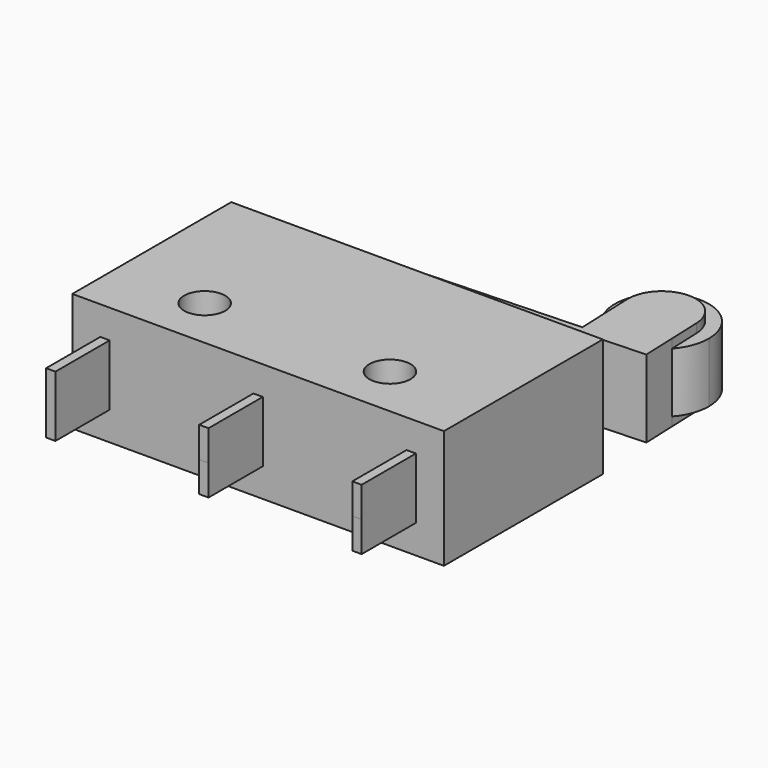
from build123d import *

# Parameters (mm, degrees)
F0_R          = 1.1
F1_DEPTH      = 3.175
F1_DEPTH_BACK = 3.175
F2_DEPTH      = 2.075
F2_DEPTH_BACK = 2.075
F0_W          = 0.5
F0_H          = 3.63
F3_DEPTH      = 1.635
F3_DEPTH_BACK = 1.635
F4_DEPTH      = 1.6
F4_DEPTH_BACK = 1.6


with BuildPart() as f1:
    # F0 (on Top) → F1 (new body, two sides)
    with BuildSketch(Plane.XY) as f1_sk:
        Polygon((8.45, -5.32), (9.95, -5.32), (9.95, 5.32), (0, 5.32), (-7.28, 5.32), (-7.68, 5.32), (-9.95, 5.32), (-9.95, -5.32), (-8.45, -5.32), (-7.95, -5.32), (-0.25, -5.32), (0.25, -5.32), (7.95, -5.32), align=None)
        with Locations((-5.1, -2.52)):
            Circle(F0_R, mode=Mode.SUBTRACT)
        with Locations((4.82, -2.52)):
            Circle(F0_R, mode=Mode.SUBTRACT)
    extrude(amount=F1_DEPTH)
    extrude(f1_sk.sketch, amount=-F1_DEPTH_BACK)

    # F0 (on Top) → F2 (join, two sides)
    with BuildSketch(Plane.XY) as f2_sk:
        with BuildLine():
            Line((-7.68, 5.32), (-7.28, 5.32))
            Line((-7.28, 5.32), (-7.28, 6.32))
            Line((-7.28, 6.32), (10.906001, 7.033709))
            Line((10.906001, 7.033709), (10.835264, 8.836148))
            ThreePointArc((10.835264, 8.836148), (9.056806, 7.996935), (7.218048, 8.69419))
            Line((7.218048, 8.69419), (7.273099, 7.291444))
            Line((7.273099, 7.291444), (-7.295686, 6.719692))
            Line((-7.295686, 6.719692), (-7.68, 6.32))
            Line((-7.68, 6.32), (-7.68, 5.32))
        make_face()
        with BuildLine():
            ThreePointArc((7.218048, 8.69419), (9.056806, 7.996935), (10.835264, 8.836148))
            Line((10.835264, 8.836148), (10.766788, 10.580979))
            ThreePointArc((10.766788, 10.580979), (8.887202, 12.318608), (7.149573, 10.439021))
            Line((7.149573, 10.439021), (7.218048, 8.69419))
        make_face()
    extrude(amount=F2_DEPTH)
    extrude(f2_sk.sketch, amount=-F2_DEPTH_BACK)

    # F0 (on Top) → F3 (join, two sides)
    with BuildSketch(Plane.XY) as f3_sk:
        with Locations((-8.2, -7.135)):
            Rectangle(F0_W, F0_H)
        with Locations((8.2, -7.135)):
            Rectangle(F0_W, F0_H)
        with Locations((0, -7.135)):
            Rectangle(F0_W, F0_H)
    extrude(amount=F3_DEPTH)
    extrude(f3_sk.sketch, amount=-F3_DEPTH_BACK)

    # F0 (on Top) → F4 (join, two sides)
    with BuildSketch(Plane.XY) as f4_sk:
        with BuildLine():
            Line((10.766788, 10.580979), (10.835264, 8.836148))
            ThreePointArc((10.835264, 8.836148), (11.308296, 9.614355), (11.47318, 10.51))
            ThreePointArc((11.47318, 10.51), (7.971065, 12.823186), (7.218048, 8.69419))
            Line((7.218048, 8.69419), (7.149573, 10.439021))
            ThreePointArc((7.149573, 10.439021), (8.887202, 12.318608), (10.766788, 10.580979))
        make_face()
    extrude(amount=F4_DEPTH)
    extrude(f4_sk.sketch, amount=-F4_DEPTH_BACK)


solid = f1.part
